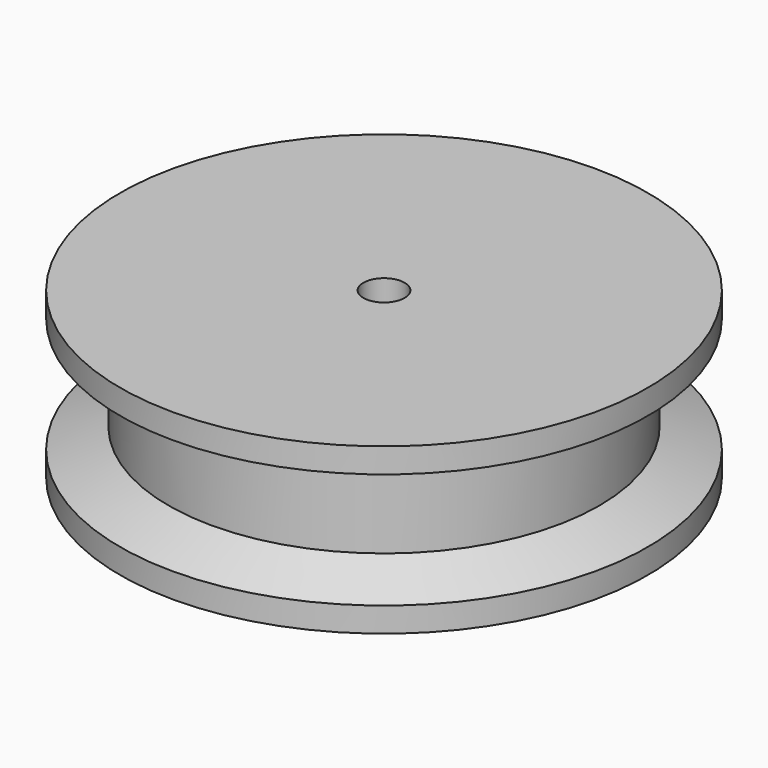
from build123d import *

# Parameters (mm, degrees)
F2_R     = 2.5
F3_DEPTH = 20


with BuildPart() as f1:
    # F0 (on Right) → F1 (revolve)
    with BuildSketch(Plane.YZ):
        Polygon((-47.7278436005, 0.6495767547), (-79.7278436005, 0.6495767547), (-79.7278436005, -2.3504232453), (-73.8382126859, -4.8504232453), (-73.8382126859, -13.8504232453), (-79.7278436005, -16.3504232453), (-79.7278436005, -19.3504232453), (-47.7278436005, -19.3504232453), align=None)
    revolve(axis=Axis((0, -47.7278436005, -9.3504232453), (0, 0, -1)))

    # F2 (on face) → F3 (cut, through all)
    with BuildSketch(Plane.XY.offset(0.6495767547)):
        with Locations((0, -47.7278436005)):
            Circle(F2_R)
    extrude(amount=-F3_DEPTH, mode=Mode.SUBTRACT)


solid = f1.part
